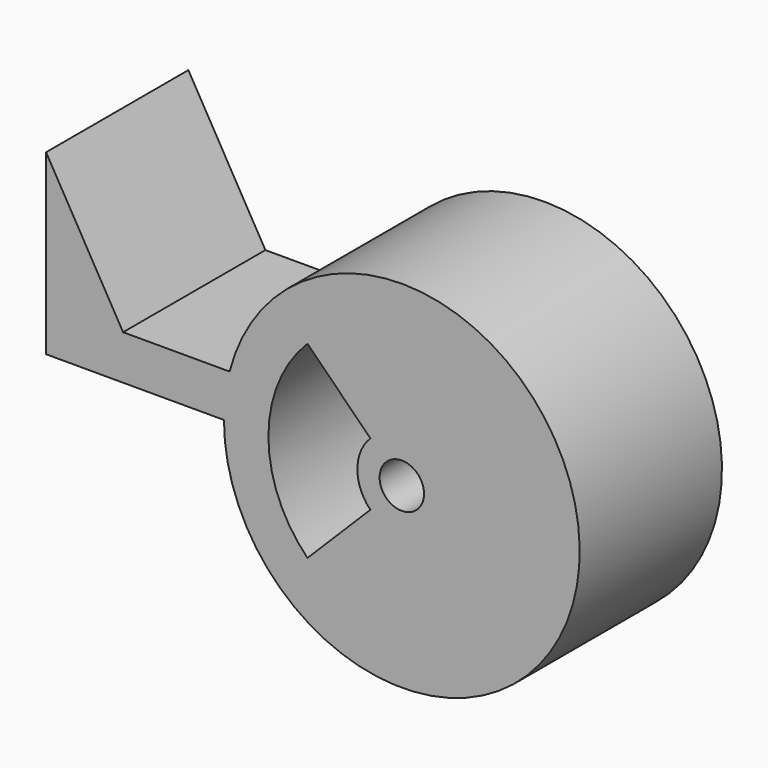
from build123d import *

# Parameters (mm, degrees)
F0_R     = 3.175
F1_DEPTH = 25.4


with BuildPart() as f1:
    # F0 (on Front) → F1 (new body)
    with BuildSketch(Plane.XZ):
        with BuildLine():
            Line((-50.8, 0), (-25.4, 0))
            ThreePointArc((-25.4, 0), (25.197554, -3.200509), (-24.593444, 6.35))
            Line((-24.593444, 6.35), (-39.801477, 6.35))
            Line((-39.801477, 6.35), (-50.8, 25.4))
            Line((-50.8, 25.4), (-50.8, 0))
        make_face()
        with BuildLine():
            ThreePointArc((-13.470384, -13.470384), (-19.05, 0), (-13.470384, 13.470384))
            Line((-13.470384, 13.470384), (-4.490128, 4.490128))
            ThreePointArc((-4.490128, 4.490128), (-6.35, 0), (-4.490128, -4.490128))
            Line((-4.490128, -4.490128), (-13.470384, -13.470384))
        make_face(mode=Mode.SUBTRACT)
        Circle(F0_R, mode=Mode.SUBTRACT)
    extrude(amount=F1_DEPTH)


solid = f1.part
